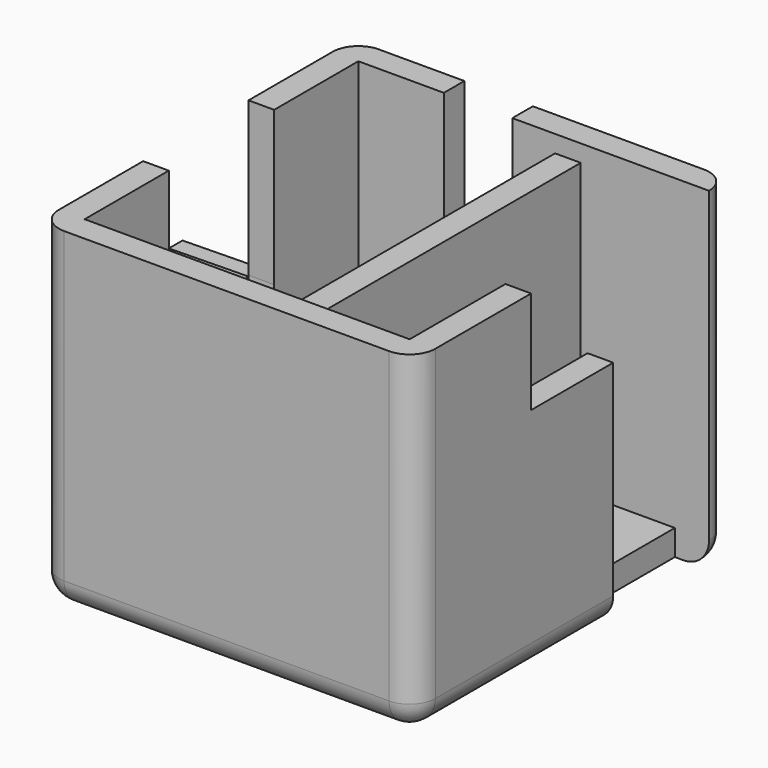
from build123d import *

# Parameters (mm, degrees)
CONE_ANGLE      = 180
THICKNESS001_T  = 1
BOX_W           = 19
BOX_H           = 20
BOX_DEPTH       = 18
THICKNESS_T     = 1.5
POCKET_DEPTH    = 2
SKETCH001_W     = 4
SKETCH001_H     = 18
POCKET001_DEPTH = 2
BOX001_W        = 20
BOX001_H        = 17
BOX001_DEPTH    = 1.5
POCKET002_DEPTH = 2


with BuildPart() as thickness001:
    # Cone → Cone (revolve)
    with BuildSketch(Plane(origin=(-1.5, 10, 9), x_dir=(0, 1, 0), z_dir=(0, 0, 1))):
        Polygon((0, 0), (3.75, 0), (3.65, 4.5), (0, 4.5), align=None)
    revolve(axis=Axis((-1.5, 10, 9), (-1, 0, 0)), revolution_arc=CONE_ANGLE)

    # Thickness001
    thickness001_openings = [thickness001.faces().sort_by_distance(p)[0] for p in [
        (-3.739865, 8.149887, 9),
        (-3.739865, 11.850113, 9),
        (-6, 10, 7.450892),
        (-1.5, 10, 7.408451),
    ]]
    offset(amount=THICKNESS001_T, openings=thickness001_openings)


with BuildPart() as fusion:
    # Box → Box (join)
    with BuildSketch(Plane.XY):
        with Locations((9.5, 10)):
            Rectangle(BOX_W, BOX_H)
    extrude(amount=BOX_DEPTH)

    # Thickness
    thickness_openings = [fusion.faces().sort_by_distance(p)[0] for p in [
        (9.5, 10, 18),
    ]]
    offset(amount=THICKNESS_T, openings=thickness_openings)

    # Sketch (on Face7 of Thickness) → Pocket (cut)
    with BuildSketch(Plane(origin=(-1.5, 0, 0), x_dir=(0, -1, 0), z_dir=(-1, 0, 0))):
        with BuildLine():
            ThreePointArc((-6.15, 19), (-10, 22.85), (-13.85, 19))
            Line((-13.85, 19), (-13.85, 9))
            ThreePointArc((-13.85, 9), (-10, 5.15), (-6.15, 9))
            Line((-6.15, 19), (-6.15, 9))
        make_face()
    extrude(amount=-POCKET_DEPTH, mode=Mode.SUBTRACT)

    # Sketch001 (on Face10 of Pocket) → Pocket001 (cut)
    with BuildSketch(Plane(origin=(0, 21.5, 0), x_dir=(-1, 0, 0), z_dir=(0, 1, 0))):
        with Locations((-7, 11)):
            Rectangle(SKETCH001_W, SKETCH001_H)
    extrude(amount=-POCKET001_DEPTH, mode=Mode.SUBTRACT)

    # Box001 → Box001 (join)
    with BuildSketch(Plane.YZ.offset(11.5)):
        with Locations((10, 8.5)):
            Rectangle(BOX001_W, BOX001_H)
    extrude(amount=BOX001_DEPTH)

    # Sketch002 (on Face14 of Box001) → Pocket002 (cut)
    with BuildSketch(Plane.YZ.offset(20.5)):
        Polygon((20, 18), (7, 18), (7, 12), (13, 12), (13, -10.564874), (20, -10.564874), align=None)
    extrude(amount=-POCKET002_DEPTH, mode=Mode.SUBTRACT)

    # Fusion: union Thickness001
    add(thickness001.part)


solid = fusion.part
